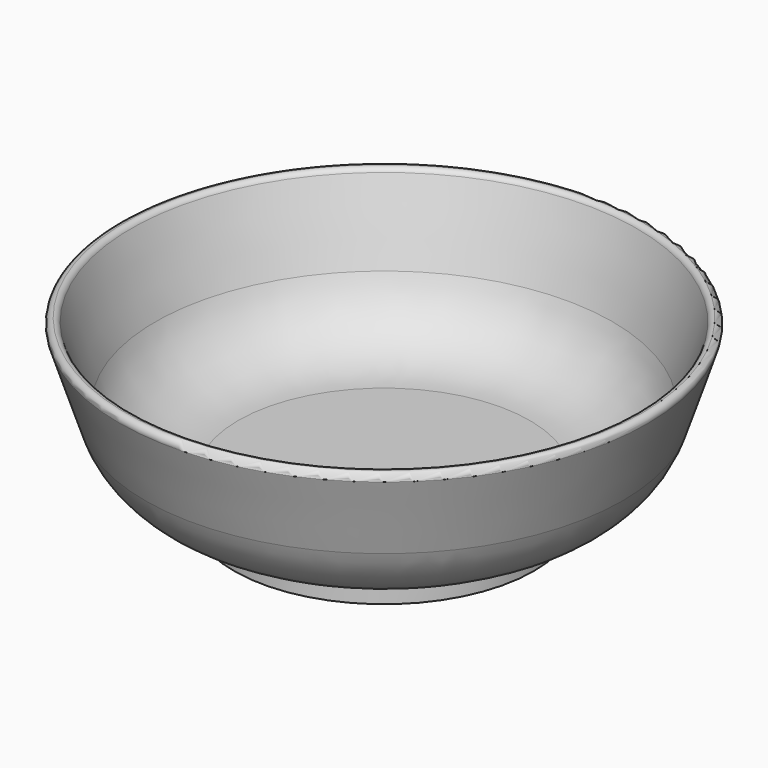
from build123d import *


with BuildPart() as f1:
    # F0 (on Front) → F1 (revolve)
    with BuildSketch(Plane.XZ):
        with BuildLine():
            ThreePointArc((62.848027, 43.741147), (62.637688, 45.096197), (61.416511, 45.72))
            Line((61.416511, 45.72), (61.416267, 45.72))
            ThreePointArc((61.416267, 45.72), (60.532359, 45.433605), (59.984365, 44.68326))
            Line((59.984365, 44.68326), (53.599079, 25.249327))
            ThreePointArc((53.599079, 25.249327), (45.28761, 13.868776), (31.881304, 9.525))
            Line((31.881304, 9.525), (25.4, 9.525))
            Line((25.4, 9.525), (0, 9.525))
            Line((0, 9.525), (-6.35, 9.525))
            Line((-6.35, 9.525), (-6.35, 0))
            Line((-6.35, 0), (0, 0))
            Line((0, 0), (24.376065, 0))
            Line((24.376065, 0), (31.321423, 0))
            Line((31.321423, 0), (33.02, 0))
            Line((33.02, 0), (33.02, 3.996068))
            ThreePointArc((33.02, 3.996068), (33.657398, 5.678835), (35.249688, 6.517042))
            ThreePointArc((35.249688, 6.517042), (48.265616, 12.09679), (56.270939, 23.778518))
            Line((56.270939, 23.778518), (62.848027, 43.741147))
        make_face()
    revolve(axis=Axis((-6.35, 0, 4.7625), (0, 0, 1)))


solid = f1.part
